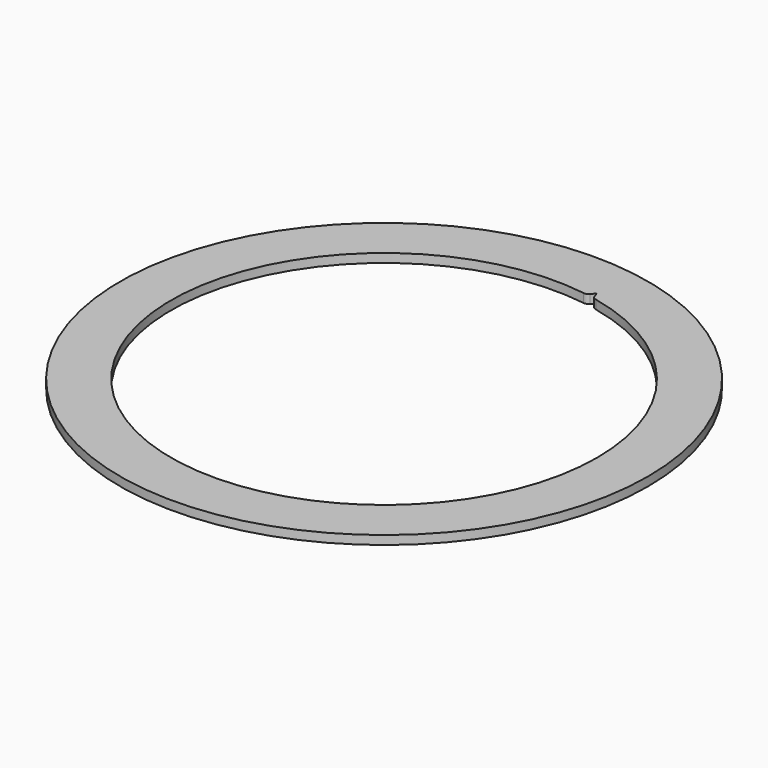
from build123d import *

# Parameters (mm, degrees)
SKETCH054_R     = 48
SKETCH054_R_2   = 38.75
PAD029_DEPTH    = 1.6
PAD030_DEPTH    = 1
FILLET018_R     = 0.8
POCKET029_DEPTH = 5
FILLET020_R     = 1


with BuildPart() as part:
    # Sketch054 → Pad029 (new body)
    with BuildSketch(Plane.XY):
        Circle(SKETCH054_R)
        Circle(SKETCH054_R_2, mode=Mode.SUBTRACT)
    extrude(amount=PAD029_DEPTH)

    # Sketch055 → Pad030 (join)
    with BuildSketch(Plane(origin=(0, 0, 0), x_dir=(-1, 0, 0), z_dir=(0, 0, -1))):
        with BuildLine():
            ThreePointArc((-1.3, 46.94), (-2.2, 46.04), (-1.3, 45.14))
            Line((-1.3, 45.14), (1.3, 45.14))
            ThreePointArc((1.3, 45.14), (2.2, 46.04), (1.3, 46.94))
            Line((1.3, 46.94), (-1.3, 46.94))
        make_face()
        with BuildLine():
            ThreePointArc((-1.3, 44.4), (-2.2, 43.5), (-1.3, 42.6))
            Line((-1.3, 42.6), (1.3, 42.6))
            ThreePointArc((1.3, 42.6), (2.2, 43.5), (1.3, 44.4))
            Line((1.3, 44.4), (-1.3, 44.4))
        make_face()
        with BuildLine():
            ThreePointArc((-1.3, 41.86), (-2.2, 40.96), (-1.3, 40.06))
            Line((-1.3, 40.06), (1.3, 40.06))
            ThreePointArc((1.3, 40.06), (2.2, 40.96), (1.3, 41.86))
            Line((1.3, 41.86), (-1.3, 41.86))
        make_face()
        with BuildLine():
            ThreePointArc((-13.374691, 45.088405), (-14.042506, 44.004882), (-12.958983, 43.337066))
            Line((-12.958983, 43.337066), (-10.429272, 43.937534))
            ThreePointArc((-10.429272, 43.937534), (-9.761456, 45.021057), (-10.84498, 45.688872))
            Line((-10.84498, 45.688872), (-13.374691, 45.088405))
        make_face()
        with BuildLine():
            ThreePointArc((-12.788343, 42.618178), (-13.456159, 41.534655), (-12.372635, 40.86684))
            Line((-12.372635, 40.86684), (-9.842924, 41.467307))
            ThreePointArc((-9.842924, 41.467307), (-9.175109, 42.55083), (-10.258632, 43.218646))
            Line((-10.258632, 43.218646), (-12.788343, 42.618178))
        make_face()
        with BuildLine():
            ThreePointArc((-12.201996, 40.147952), (-12.869811, 39.064428), (-11.786288, 38.396613))
            Line((-11.786288, 38.396613), (-9.256577, 38.99708))
            ThreePointArc((-9.256577, 38.99708), (-8.588761, 40.080604), (-9.672285, 40.748419))
            Line((-9.672285, 40.748419), (-12.201996, 40.147952))
        make_face()
    extrude(amount=PAD030_DEPTH)

    # Fillet018
    fillet018_edges = [part.edges().sort_by_distance(p)[0] for p in [
        (9.761456, 45.021057, -1),
        (9.175109, 42.55083, -1),
        (8.588761, 40.080604, -1),
        (-2.2, 40.96, -1),
        (-2.2, 43.5, -1),
        (-2.2, 46.04, -1),
    ]]
    fillet(fillet018_edges, radius=FILLET018_R)

    # Sketch060 → Pocket029 (cut)
    with BuildSketch(Plane.XY):
        with BuildLine():
            ThreePointArc((7.655731, 37.986212), (6.919079, 38.127272), (6.179836, 38.254047))
            Line((6.179836, 38.254047), (7.149736, 39.398292))
            Line((7.149736, 39.398292), (7.655731, 37.986212))
        make_face()
    extrude(amount=POCKET029_DEPTH, mode=Mode.SUBTRACT)

    # Fillet020
    fillet020_edges = [part.edges().sort_by_distance(p)[0] for p in [
        (7.655731, 37.986212, 0.8),
        (6.179836, 38.254047, 0.8),
    ]]
    fillet(fillet020_edges, radius=FILLET020_R)


solid = part.part
